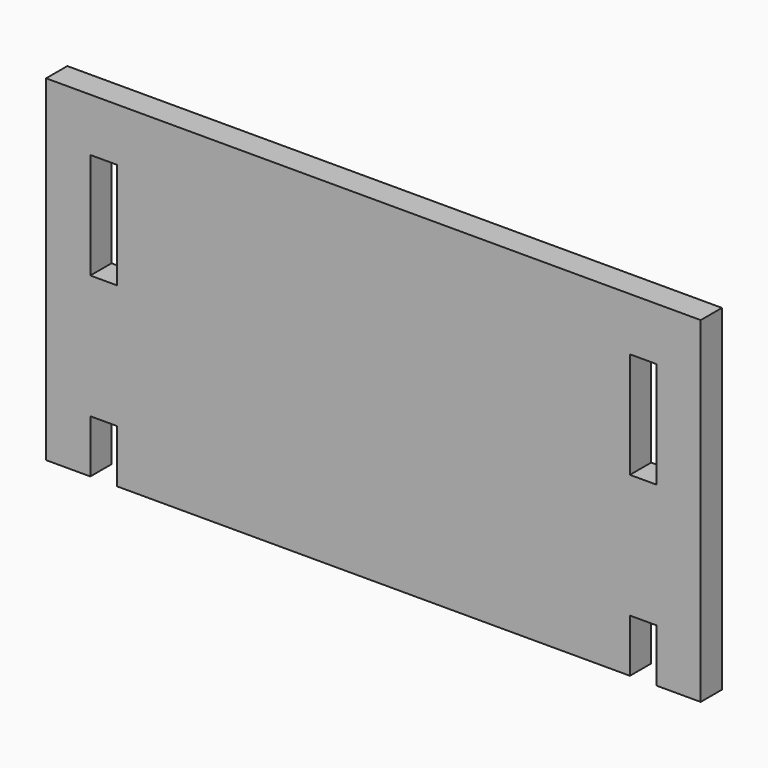
from build123d import *

# Parameters (mm, degrees)
F0_W     = 3
F0_H     = 12
F1_DEPTH = 1.5


with BuildPart() as f1:
    # F0 (on Front) → F1 (new body, symmetric)
    with BuildSketch(Plane.XZ):
        Polygon((37, 28), (-37, 28), (-37, -10), (-32, -10), (-32, -4), (-29, -4), (-29, -10), (29, -10), (29, -4), (32, -4), (32, -10), (37, -10), align=None)
        with Locations((-30.5, 16)):
            Rectangle(F0_W, F0_H, mode=Mode.SUBTRACT)
        with Locations((30.5, 16)):
            Rectangle(F0_W, F0_H, mode=Mode.SUBTRACT)
    extrude(amount=F1_DEPTH, both=True)


solid = f1.part
